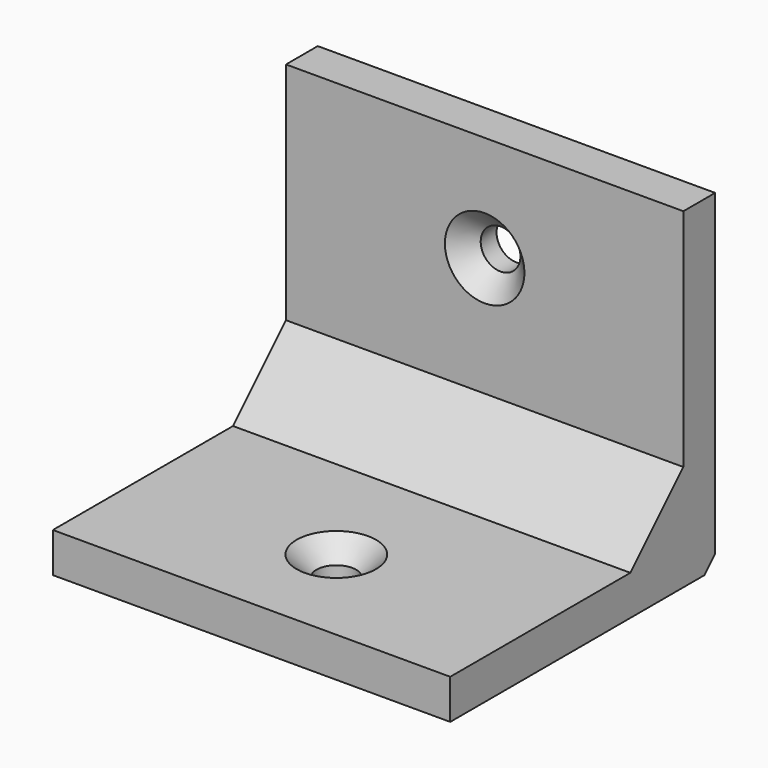
from build123d import *

# Parameters (mm, degrees)
F1_DEPTH       = 30
F2_SIZE        = 5
F3_SIZE        = 1
F5_D           = 3
F5_CSINK_D     = 6
F5_CSINK_ANGLE = 90
F7_D           = 3
F7_CSINK_D     = 6
F7_CSINK_ANGLE = 90


with BuildPart() as f1:
    # F0 (on Right) → F1 (new body)
    with BuildSketch(Plane.YZ):
        Polygon((-25, 0), (0, 0), (0, 25), (-3, 25), (-3, 3), (-25, 3), align=None)
    extrude(amount=F1_DEPTH)

    # F2
    f2_edges = [f1.edges().sort_by_distance(p)[0] for p in [
        (15, -3, 3),
    ]]
    chamfer(f2_edges, length=F2_SIZE)

    # F3
    f3_edges = [f1.edges().sort_by_distance(p)[0] for p in [
        (15, 0, 0),
    ]]
    chamfer(f3_edges, length=F3_SIZE)

    # F5 (through all)
    with Locations(Plane.XZ.offset(3)):
        with Locations((15, 17)):
            CounterSinkHole(F5_D / 2, F5_CSINK_D / 2, counter_sink_angle=F5_CSINK_ANGLE)

    # F7 (through all)
    with Locations(Plane.XY.offset(3)):
        with Locations((15, -17)):
            CounterSinkHole(F7_D / 2, F7_CSINK_D / 2, counter_sink_angle=F7_CSINK_ANGLE)


solid = f1.part
